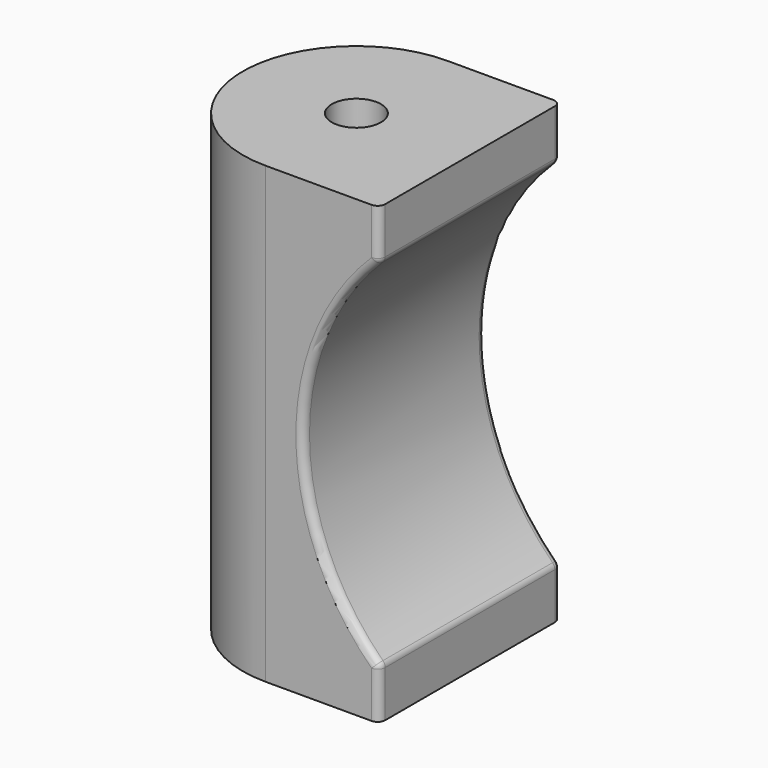
from build123d import *

# Parameters (mm, degrees)
F0_R     = 6.5
F1_DEPTH = 60
F2_R     = 65
F3_DEPTH = 60
F4_R     = 2


with BuildPart() as f1:
    # F0 (on Top) → F1 (new body, symmetric)
    with BuildSketch(Plane.XY):
        with BuildLine():
            Line((30, 30), (0, 30))
            ThreePointArc((0, 30), (21.2132034356, 21.2132034356), (30, 0))
            Line((30, 0), (30, 30))
        make_face()
        with BuildLine():
            ThreePointArc((30, 0), (21.2132034356, 21.2132034356), (0, 30))
            ThreePointArc((0, 30), (-30, 0), (0, -30))
            ThreePointArc((0, -30), (21.2132034356, -21.2132034356), (30, 0))
        make_face()
        Circle(F0_R, mode=Mode.SUBTRACT)
        with BuildLine():
            Line((30, -30), (30, 0))
            ThreePointArc((30, 0), (21.2132034356, -21.2132034356), (0, -30))
            Line((0, -30), (30, -30))
        make_face()
    extrude(amount=F1_DEPTH, both=True)

    # F2 (on Front) → F3 (cut, symmetric)
    with BuildSketch(Plane.XZ):
        with Locations((75, 0)):
            Circle(F2_R)
    extrude(amount=F3_DEPTH, both=True, mode=Mode.SUBTRACT)

    # F4
    f4_edges = [f1.edges().sort_by_distance(p)[0] for p in [
        (10, -30, 0),
        (30, -30, 53.452079),
        (30, 0, -46.904158),
        (30, 0, 46.904158),
        (30, 30, 53.452079),
        (10, 30, 0),
        (30, -30, -53.452079),
        (30, 30, -53.452079),
    ]]
    fillet(f4_edges, radius=F4_R)


solid = f1.part
